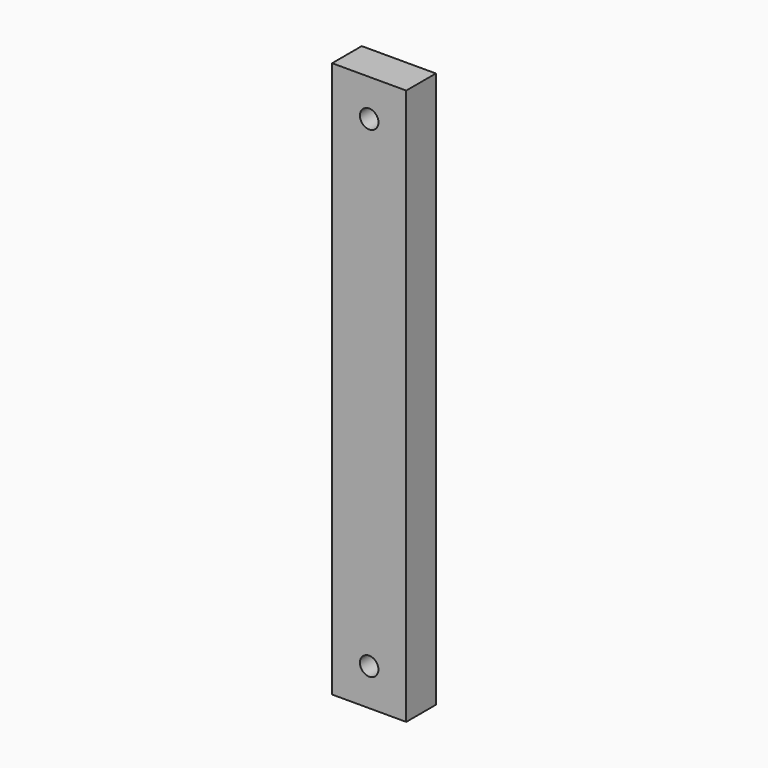
from build123d import *

# Parameters (mm, degrees)
F0_W     = 20
F0_H     = 150
F1_DEPTH = 10
F3_D     = 5


with BuildPart() as f1:
    # F0 (on Front) → F1 (new body)
    with BuildSketch(Plane.XZ):
        with Locations((10, 75)):
            Rectangle(F0_W, F0_H)
    extrude(amount=F1_DEPTH)

    # F3 (through all)
    with Locations(Plane.XZ.offset(10)):
        with Locations((10, 140), (10, 10)):
            Hole(F3_D / 2)


solid = f1.part
